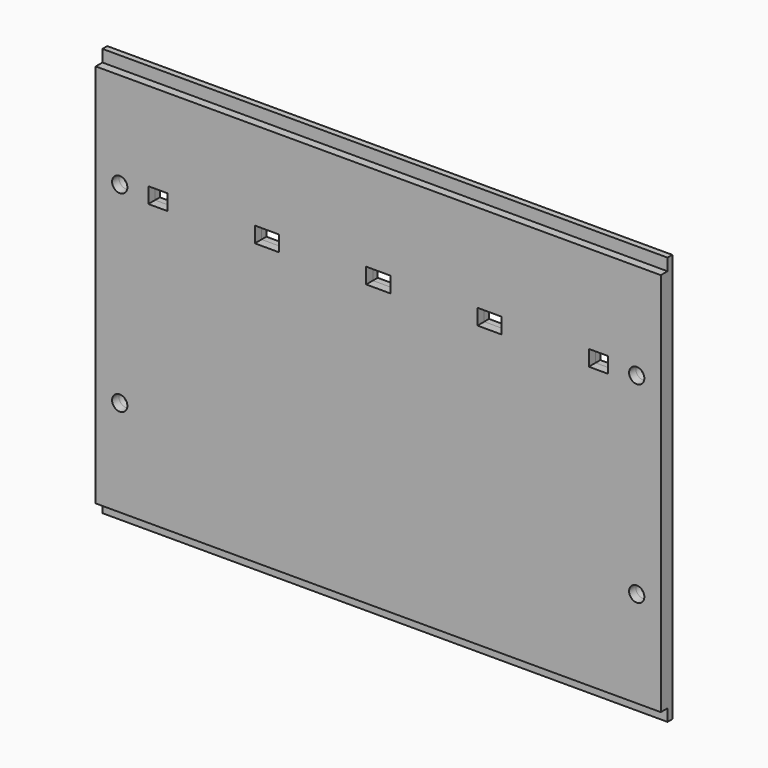
from build123d import *

# Parameters (mm, degrees)
F0_W     = 298.45
F0_H     = 203.2
F0_R     = 4.031729
F0_W_2   = 10.2108
F0_H_2   = 8.2804
F0_W_3   = 12.7508
F1_DEPTH = 4.445
F0_H_3   = 6.35
F2_DEPTH = 3.175


with BuildPart() as f1:
    # F0 (on Front) → F1 (new body)
    with BuildSketch(Plane.XZ):
        Rectangle(F0_W, F0_H)
        with Locations((-136.525, -50.8)):
            Circle(F0_R, mode=Mode.SUBTRACT)
        with Locations((136.525, -50.8)):
            Circle(F0_R, mode=Mode.SUBTRACT)
        with Locations((-136.525, 50.8)):
            Circle(F0_R, mode=Mode.SUBTRACT)
        with Locations((-116.332, 50.8)):
            Rectangle(F0_W_2, F0_H_2, mode=Mode.SUBTRACT)
        with Locations((-58.801, 50.8)):
            Rectangle(F0_W_3, F0_H_2, mode=Mode.SUBTRACT)
        with Locations((0, 50.8)):
            Rectangle(F0_W_3, F0_H_2, mode=Mode.SUBTRACT)
        with Locations((58.801, 50.8)):
            Rectangle(F0_W_3, F0_H_2, mode=Mode.SUBTRACT)
        with Locations((116.332, 50.8)):
            Rectangle(F0_W_2, F0_H_2, mode=Mode.SUBTRACT)
        with Locations((136.525, 50.8)):
            Circle(F0_R, mode=Mode.SUBTRACT)
    extrude(amount=F1_DEPTH)

    # F0 (on Front) → F2 (join)
    with BuildSketch(Plane.XZ):
        with Locations((0, 104.775)):
            Rectangle(F0_W, F0_H_3)
        Rectangle(F0_W, F0_H)
        with Locations((-136.525, -50.8)):
            Circle(F0_R, mode=Mode.SUBTRACT)
        with Locations((136.525, -50.8)):
            Circle(F0_R, mode=Mode.SUBTRACT)
        with Locations((-136.525, 50.8)):
            Circle(F0_R, mode=Mode.SUBTRACT)
        with Locations((-116.332, 50.8)):
            Rectangle(F0_W_2, F0_H_2, mode=Mode.SUBTRACT)
        with Locations((-58.801, 50.8)):
            Rectangle(F0_W_3, F0_H_2, mode=Mode.SUBTRACT)
        with Locations((0, 50.8)):
            Rectangle(F0_W_3, F0_H_2, mode=Mode.SUBTRACT)
        with Locations((58.801, 50.8)):
            Rectangle(F0_W_3, F0_H_2, mode=Mode.SUBTRACT)
        with Locations((116.332, 50.8)):
            Rectangle(F0_W_2, F0_H_2, mode=Mode.SUBTRACT)
        with Locations((136.525, 50.8)):
            Circle(F0_R, mode=Mode.SUBTRACT)
        with Locations((0, -104.775)):
            Rectangle(F0_W, F0_H_3)
    extrude(amount=-F2_DEPTH)


solid = f1.part
